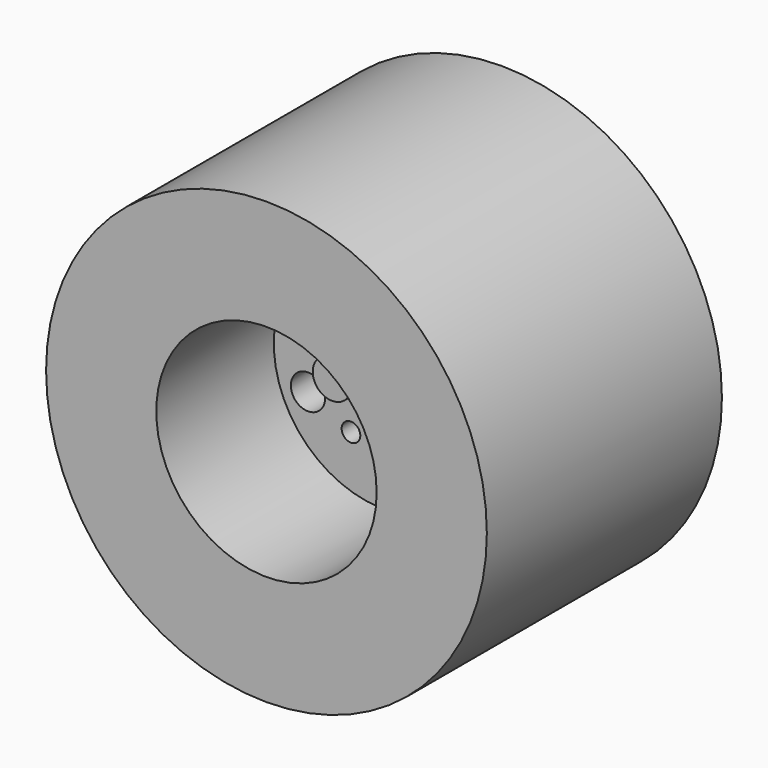
from build123d import *

# Parameters (mm, degrees)
F0_R      = 19.05
F1_DEPTH  = 25.4
F2_R      = 9.525
F3_DEPTH  = 12.7
F4_R      = 1.133132
F4_R_2    = 0.889661
F4_R_3    = 0.83878
F4_R_4    = 0.750228
F4_R_5    = 1.060981
F4_R_6    = 1.482769
F4_R_7    = 0.806713
F4_R_8    = 1.482771
F4_R_9    = 1.186214
F4_R_10   = 1.22272
F5_DEPTH  = 25.4
F7_R      = 1.677648
F8_DEPTH  = 5.08
F9_R      = 2.09708
F10_DEPTH = 12.7


with BuildPart() as f1:
    # F0 (on Front) → F1 (new body)
    with BuildSketch(Plane.XZ):
        with Locations((-47.624998, 24.257001)):
            Circle(F0_R)
    extrude(amount=-F1_DEPTH)

    # F2 (on face) → F3 (cut)
    with BuildSketch(Plane.XZ):
        with Locations((-47.624998, 24.257001)):
            Circle(F2_R)
    extrude(amount=-F3_DEPTH, mode=Mode.SUBTRACT)

    # F4 (on face) → F5 (cut)
    with BuildSketch(Plane.XZ.offset(-12.7)):
        with Locations((-41.461259, 29.747711)):
            Circle(F4_R)
        with Locations((-45.970432, 32.532789)):
            Circle(F4_R_2)
        with Locations((-51.010098, 31.604432)):
            Circle(F4_R_3)
        with Locations((-54.060422, 29.482467)):
            Circle(F4_R_4)
        with Locations((-55.519272, 26.166897)):
            Circle(F4_R_5)
        with Locations((-54.193046, 21.5251)):
            Circle(F4_R_6)
        with Locations((-50.479606, 19.668382)):
            Circle(F4_R_7)
        with Locations((-46.103057, 18.6074)):
            Circle(F4_R_8)
        with Locations((-41.461259, 19.933628)):
            Circle(F4_R_9)
        with Locations((-39.737161, 25.769029)):
            Circle(F4_R_10)
    extrude(amount=-F5_DEPTH, mode=Mode.SUBTRACT)

    # F7 (on face) → F8 (join)
    with BuildSketch(Plane.XZ.offset(-12.7)):
        with Locations((-48.044514, 26.577691)):
            Circle(F7_R)
    extrude(amount=F8_DEPTH)

    # F9 (on face) → F10 (join)
    with BuildSketch(Plane(origin=(0, 25.4, 0), x_dir=(-1, 0, 0), z_dir=(0, 1, 0))):
        with Locations((47.411542, 26.54841)):
            Circle(F9_R)
    extrude(amount=F10_DEPTH)


solid = f1.part
